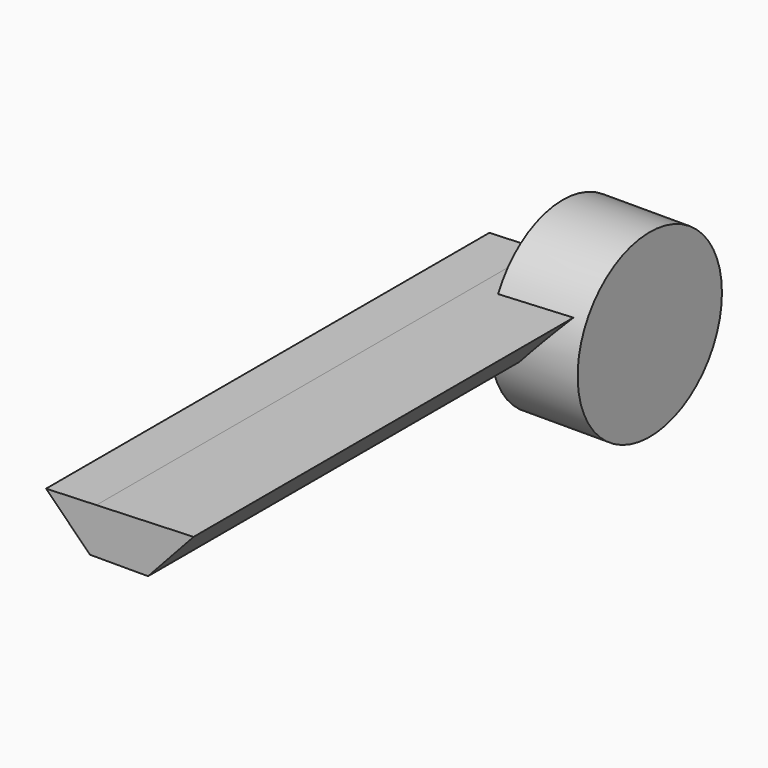
from build123d import *

# Parameters (mm, degrees)
F1_DEPTH = 433.324
F2_R     = 70.523378
F3_DEPTH = 68.072


with BuildPart() as f1:
    # F0 (on Front) → F1 (new body)
    with BuildSketch(Plane.XZ):
        Polygon((-57.367589, 35.586316), (-23.008391, 1.227116), (22.394842, 1.227116), (57.981156, 39.881214), (-18.01742, 37.051481), align=None)
    extrude(amount=F1_DEPTH)

    # F2 (on Right) → F3 (join)
    with BuildSketch(Plane.YZ):
        with Locations((0, 6.359586)):
            Circle(F2_R)
    extrude(amount=F3_DEPTH)


solid = f1.part
